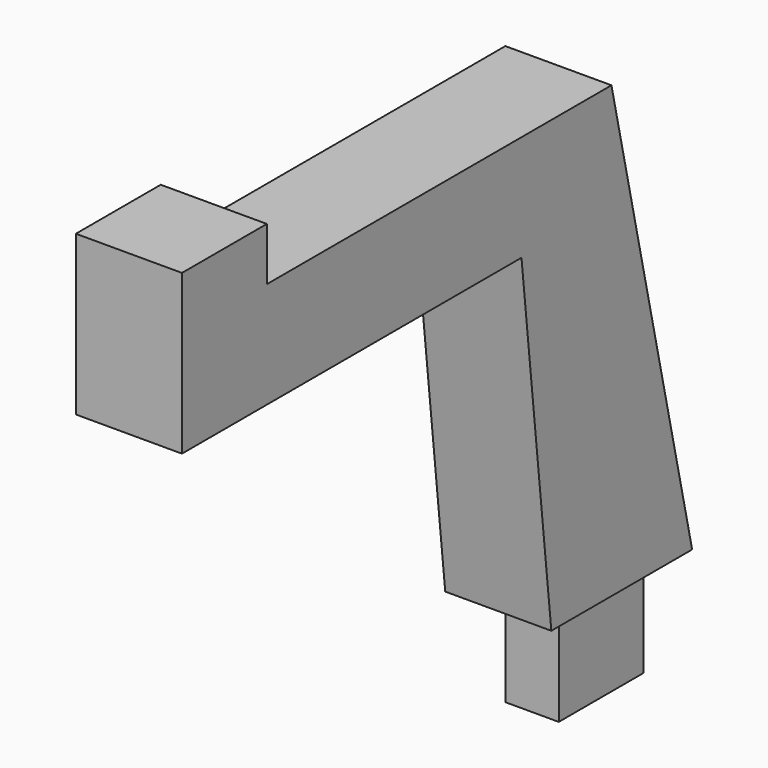
from build123d import *

# Parameters (mm, degrees)
F1_DEPTH = 6.35
F2_W     = 6.35
F2_H     = 12.7
F3_DEPTH = 12.7


with BuildPart() as f1:
    # F0 (on Right) → F1 (new body, symmetric)
    with BuildSketch(Plane.YZ):
        Polygon((2.713958, 14.533968), (23.782384, 14.533968), (11.706621, 68.364052), (-39.854848, 68.364052), (-39.854848, 74.714052), (-52.554848, 74.714052), (-52.554848, 55.664052), (-1.754848, 55.664052), align=None)
    extrude(amount=F1_DEPTH, both=True)

    # F2 (on face) → F3 (join)
    with BuildSketch(Plane(origin=(0, 0, 14.533968), x_dir=(1, 0, 0), z_dir=(0, 0, -1))):
        with Locations((0, -14.143958)):
            Rectangle(F2_W, F2_H)
    extrude(amount=F3_DEPTH)


solid = f1.part
